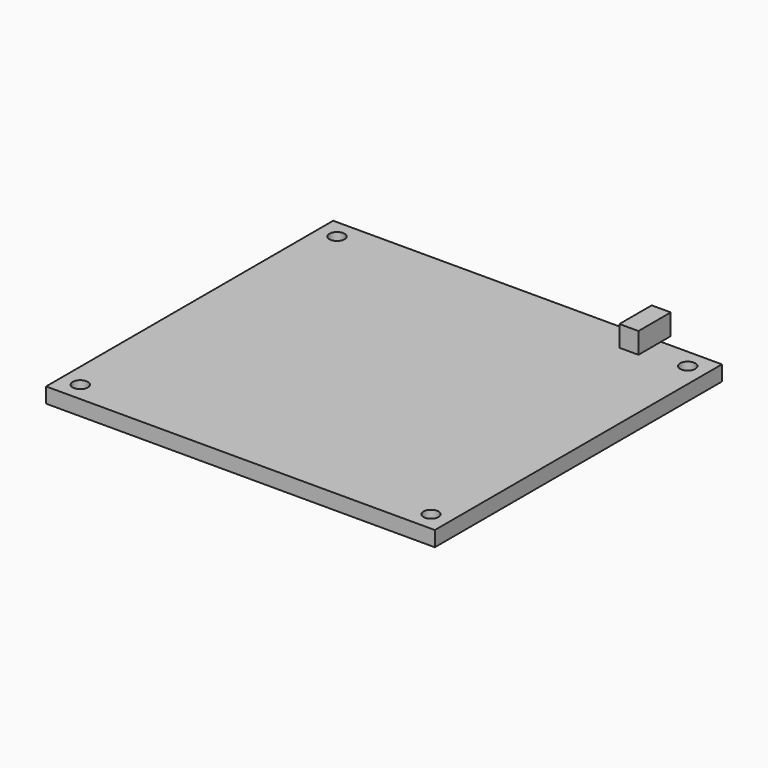
from build123d import *

# Parameters (mm, degrees)
F0_W     = 65
F0_H     = 60
F1_DEPTH = 2.54
F2_R     = 1.27
F3_DEPTH = 2.541
F4_W     = 3.186375
F4_H     = 6.750785
F5_DEPTH = 3.5


with BuildPart() as f1:
    # F0 (on Top) → F1 (new body)
    with BuildSketch(Plane.XY):
        with Locations((53.585585, -131.870539)):
            Rectangle(F0_W, F0_H)
    extrude(amount=F1_DEPTH)

    # F2 (on face) → F3 (cut, through all)
    with BuildSketch(Plane.XY.offset(2.54)):
        with Locations((24.260585, -105.045539)):
            Circle(F2_R)
        with Locations((82.910585, -105.045539)):
            Circle(F2_R)
        with Locations((82.910585, -158.695539)):
            Circle(F2_R)
        with Locations((24.260585, -158.695539)):
            Circle(F2_R)
    extrude(amount=-F3_DEPTH, mode=Mode.SUBTRACT)

    # F4 (on face) → F5 (join)
    with BuildSketch(Plane.XY.offset(2.54)):
        with Locations((74.301257, -103.201653)):
            Rectangle(F4_W, F4_H)
    extrude(amount=F5_DEPTH)


solid = f1.part
